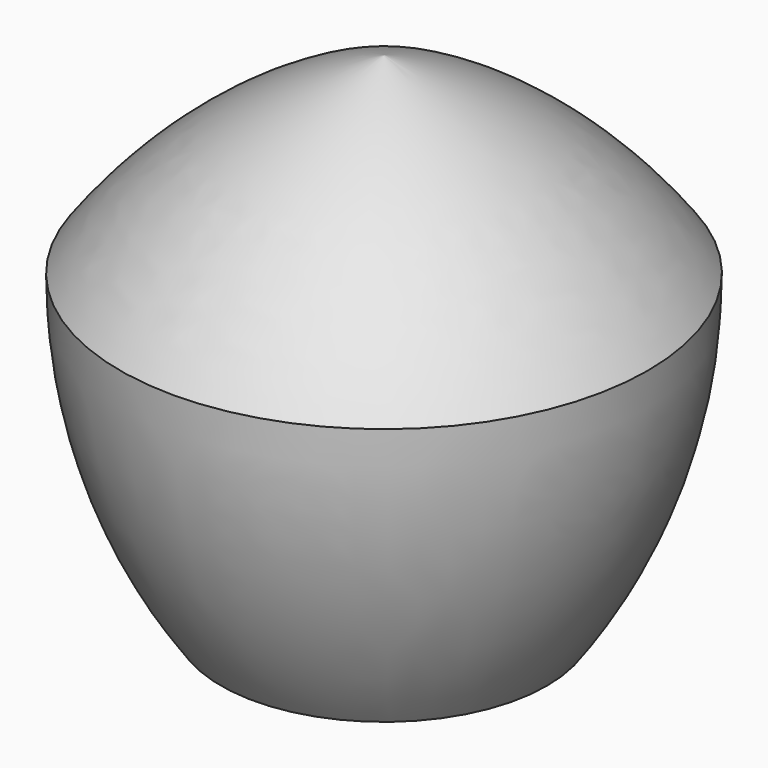
from build123d import *


with BuildPart() as f1:
    # F0 (on Front) → F1 (revolve)
    with BuildSketch(Plane.XZ):
        with BuildLine():
            ThreePointArc((0, -4.986758), (1.644849, -4.857306), (3.249197, -4.472136))
            Line((3.249197, -4.472136), (0, -4.472136))
            Line((0, -4.472136), (0, -4.986758))
        make_face()
        Polygon((0, -4.472136), (3.249197, -4.472136), (5.257311, 1.708204), (0, 5.527864), align=None)
        with BuildLine():
            Line((5.257311, 1.708204), (3.249197, -4.472136))
            ThreePointArc((3.249197, -4.472136), (4.742689, -1.540993), (5.257311, 1.708204))
        make_face()
        with BuildLine():
            Line((0, 5.527864), (5.257311, 1.708204))
            ThreePointArc((5.257311, 1.708204), (2.931143, 4.034372), (0, 5.527864))
        make_face()
    revolve(axis=Axis((0, 0, 0.45606), (0, 0, -1)))


solid = f1.part
